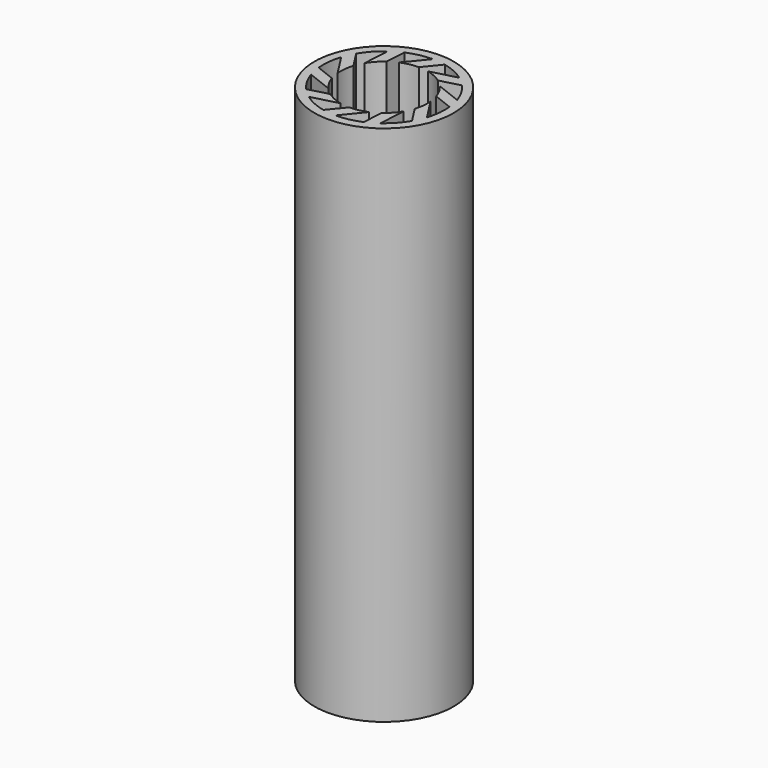
from build123d import *

# Parameters (mm, degrees)
SKETCH001_R        = 4
SKETCH001_R_2      = 3.5
PAD_DEPTH          = 15
PAD001_DEPTH       = 15
POLARPATTERN_COUNT = 10


with BuildPart() as part:
    # Sketch001 → Pad (new body, symmetric)
    with BuildSketch(Plane.XY):
        Circle(SKETCH001_R)
        Circle(SKETCH001_R_2, mode=Mode.SUBTRACT)
    extrude(amount=PAD_DEPTH, both=True)

    # Sketch → Pad001 (join, symmetric)
    with BuildSketch(Plane.XY):
        with BuildLine():
            Line((0, 3.5), (-0.979796, 2.3))
            ThreePointArc((0, 2.5), (-0.5, 2.44949), (-0.979796, 2.3))
            Line((0, 2.5), (0.750097, 3.418677))
            ThreePointArc((0.750097, 3.418677), (0.377246, 3.47961), (0, 3.5))
        make_face()
    extrude(amount=PAD001_DEPTH, both=True)

    # PolarPattern: part ×10 about axis
    polarpattern_axis = Axis((0, 0, 0), (0, 0, 1))


with BuildPart() as part_1:
    add(part.part)
    for i in range(1, POLARPATTERN_COUNT):
        add(part.part.rotate(polarpattern_axis, i * 360 / POLARPATTERN_COUNT))


solid = part_1.part
